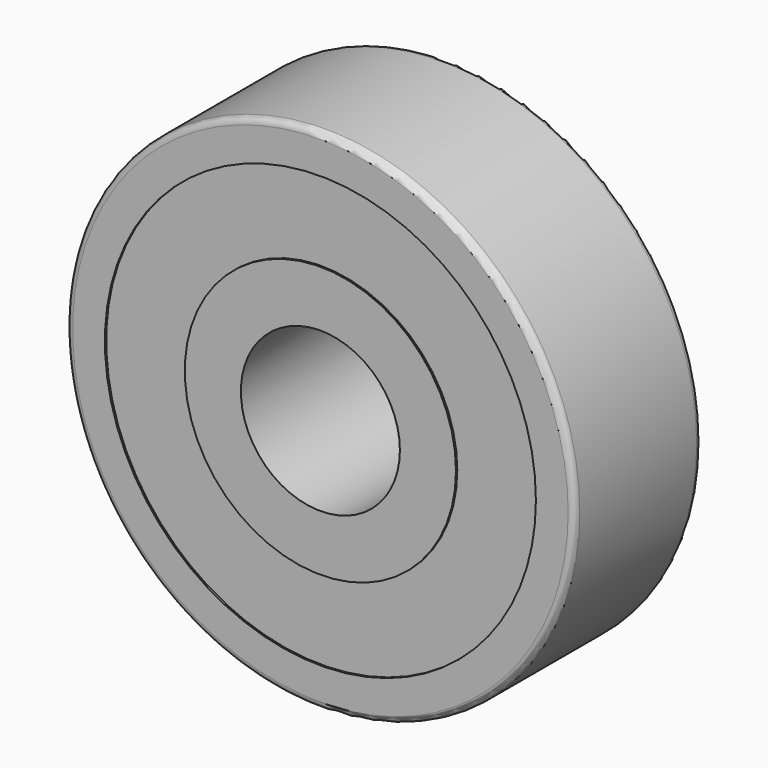
from build123d import *

# Parameters (mm, degrees)
F0_R        = 8.001
F0_R_2      = 2.5019
F1_DEPTH    = 5.0038
F2_R        = 6.7818
F2_R_2      = 4.2672
F1_FACE_R   = 8.001
F1_FACE_R_2 = 2.5019
F3_DEPTH    = 0.0508
F4_R        = 6.7818
F4_R_2      = 4.2672
F5_DEPTH    = 0.0508
F6_R        = 0.2032


with BuildPart() as f1:
    # F0 (on Front) → F1 (new body)
    with BuildSketch(Plane.XZ):
        Circle(F0_R)
        Circle(F0_R_2, mode=Mode.SUBTRACT)
    extrude(amount=F1_DEPTH)

    # F2 (on Front) + F1_face (on face) → F3 (cut)
    with BuildSketch(Plane.XZ):
        Circle(F2_R)
        Circle(F2_R_2, mode=Mode.SUBTRACT)
    with BuildSketch(Plane.XZ.offset(5.0038)):
        Circle(F1_FACE_R)
        Circle(F1_FACE_R_2, mode=Mode.SUBTRACT)
    extrude(amount=F3_DEPTH, mode=Mode.SUBTRACT)

    # F4 (on face) → F5 (cut)
    with BuildSketch(Plane.XZ.offset(5.0038)):
        Circle(F4_R)
        Circle(F4_R_2, mode=Mode.SUBTRACT)
    extrude(amount=-F5_DEPTH, mode=Mode.SUBTRACT)

    # F6
    f6_edges = [f1.edges().sort_by_distance(p)[0] for p in [
        (-8.001, -5.0038, 0),
        (-8.001, 0, 0),
    ]]
    fillet(f6_edges, radius=F6_R)


solid = f1.part
